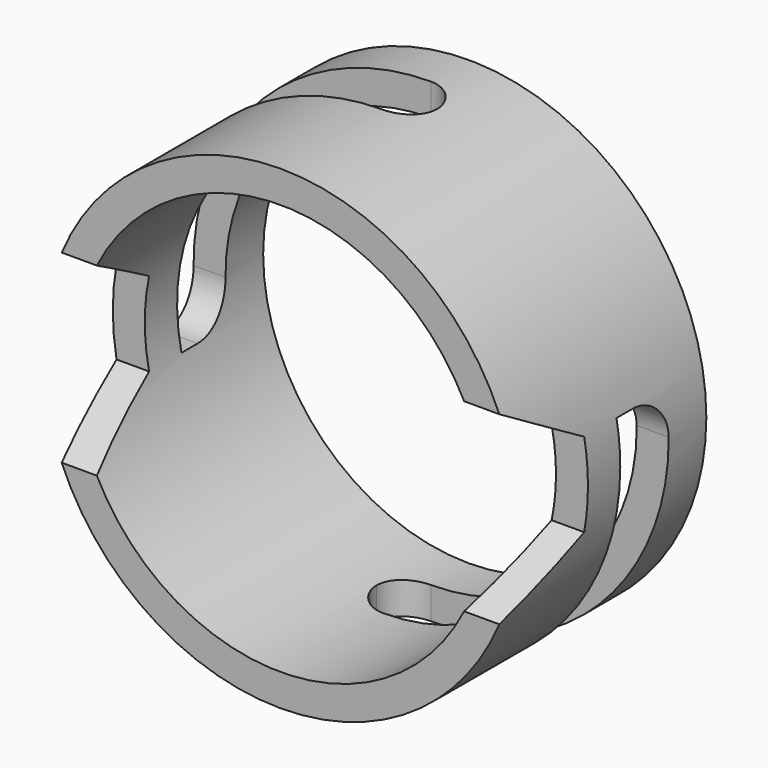
from build123d import *

# Parameters (mm, degrees)
F0_R          = 70.65
F1_DEPTH      = 70
F2_T          = -9.5
F4_DEPTH      = 70.651
F4_DEPTH_BACK = 70.651
F6_DEPTH      = 70.6510001
F8_DEPTH      = 70.6510001


with BuildPart() as f1:
    # F0 (on Front) → F1 (new body)
    with BuildSketch(Plane.XZ):
        Circle(F0_R)
    extrude(amount=F1_DEPTH)

    # F2
    f2_openings = [f1.faces().sort_by_distance(p)[0] for p in [
        (0, -70, 0),
        (0, 0, 0),
    ]]
    offset(amount=F2_T, openings=f2_openings)

    # F3 (on Right) → F4 (cut, two sides)
    with BuildSketch(Plane.YZ) as f4_sk:
        with BuildLine():
            Line((-26, 12.5), (-32, 12.5))
            Line((-32, 12.5), (-32, -12.5))
            Line((-32, -12.5), (-26, -12.5))
            ThreePointArc((-26, -12.5), (-17.5147186258, -8.9852813742), (-14, -0.5))
            Line((-14, -0.5), (-14, 0.5))
            ThreePointArc((-14, 0.5), (-17.5147186258, 8.9852813742), (-26, 12.5))
        make_face()
        Polygon((-70, 27.5), (-70, 12.5), (-70, -12.5), (-70, -27.5), (-44.0192378865, -12.5), (-44.0192378865, 12.5), align=None)
    extrude(amount=-F4_DEPTH, mode=Mode.SUBTRACT)
    extrude(f4_sk.sketch, amount=F4_DEPTH_BACK, mode=Mode.SUBTRACT)

    # F5 (on Top) → F6 (cut, through all)
    with BuildSketch(Plane.XY):
        with BuildLine():
            ThreePointArc((-8.9995123916, -23.0936841124), (-6.3307520481, -29.3969976165), (0, -32))
            Line((0, -32), (79.6814696193, -32))
            Line((79.6814696193, -32), (79.6814696193, -14))
            Line((79.6814696193, -14), (0, -14))
            ThreePointArc((0, -14), (-6.3969976165, -16.6692479519), (-8.9995123916, -23.0936841124))
        make_face()
    extrude(amount=-F6_DEPTH, mode=Mode.SUBTRACT)

    # F7 (on Top) → F8 (cut, through all)
    with BuildSketch(Plane.XY):
        with BuildLine():
            Line((-108.6236870661, -32), (0, -32))
            ThreePointArc((0, -32), (6.3639610307, -29.3639610307), (9, -23))
            ThreePointArc((9, -23), (6.3639610307, -16.6360389693), (0, -14))
            Line((0, -14), (-108.6236870661, -14))
            Line((-108.6236870661, -14), (-108.6236870661, -32))
        make_face()
    extrude(amount=F8_DEPTH, mode=Mode.SUBTRACT)


solid = f1.part
